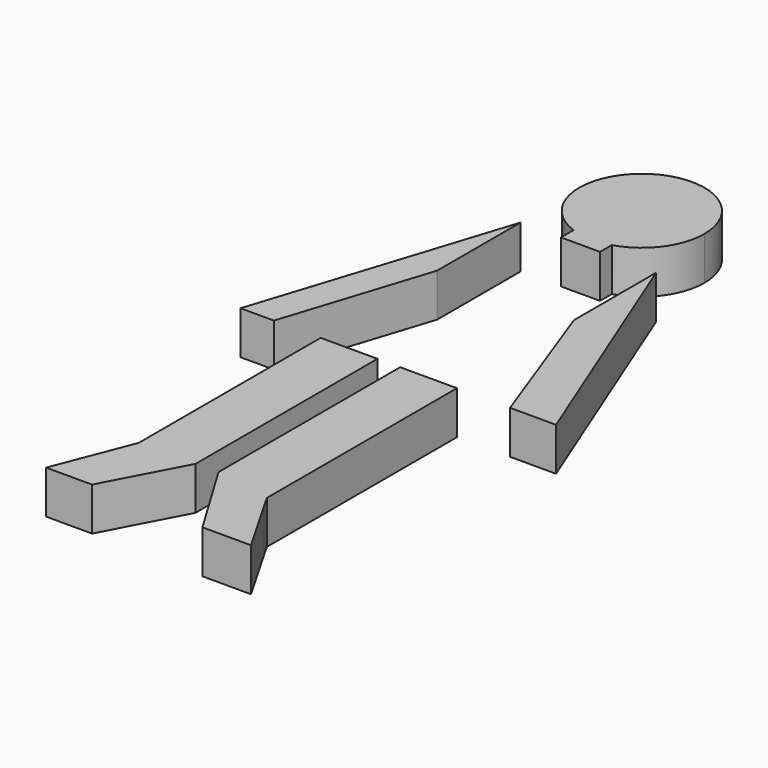
from build123d import *

# Parameters (mm, degrees)
F1_DEPTH = 9.652


with BuildPart() as f1:
    # F0 (on Top) → F1 (new body)
    with BuildSketch(Plane.XY):
        Polygon((12.7, -50.8), (0, -50.8), (10.8585, -68.865746), (21.717001, -68.865746), (14.344779, -56.016282), (12.7, -53.149503), align=None)
        Polygon((-14.287501, -68.294249), (-5.08, -50.863501), (-17.78, -50.863501), (-24.5745, -68.294249), align=None)
        Polygon((-28.237476, 0), (-17.78, 32.575499), (-17.78, 55.88), (-35.71875, 0), align=None)
        Polygon((12.573, 55.88), (12.573, 32.861251), (24.5745, 0), (34.861501, 0), align=None)
        with BuildLine():
            ThreePointArc((-8.752791, 59.406579), (-4.396076, 58.582172), (0, 59.161075))
            ThreePointArc((0, 59.161075), (7.225944, 64.212816), (10.001247, 72.581331))
            ThreePointArc((10.001247, 72.581331), (-12.0538, 84.040913), (-8.752791, 59.406579))
        make_face()
        Polygon((12.573, 0), (0, 0), (0, -50.8), (12.7, -50.8), (12.7, 0), align=None)
        Polygon((-5.08, -50.8), (-5.08, 0), (-17.78, 0), (-17.78, -50.863501), (-5.08, -50.863501), align=None)
        with BuildLine():
            Line((-8.752791, 55.88), (0, 55.88))
            Line((0, 55.88), (0, 59.161075))
            ThreePointArc((0, 59.161075), (-4.396076, 58.582172), (-8.752791, 59.406579))
            Line((-8.752791, 59.406579), (-8.752791, 55.88))
        make_face()
    extrude(amount=F1_DEPTH)


solid = f1.part
